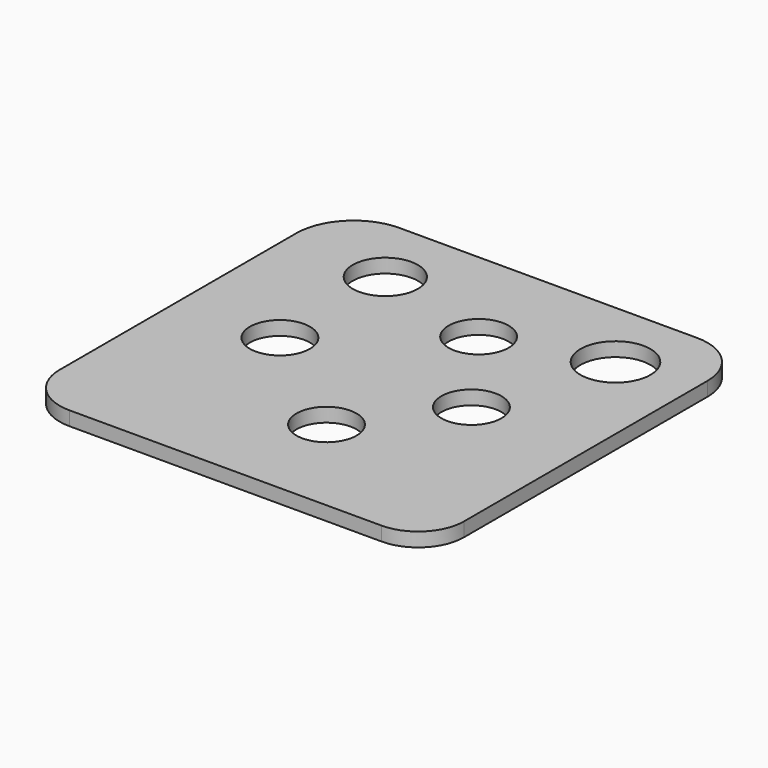
from build123d import *

# Parameters (mm, degrees)
PAD002_DEPTH    = 1.4
SKETCH004_R     = 3
POCKET001_DEPTH = 1.401
SKETCH006_R     = 3
POCKET002_DEPTH = 1.401
SKETCH007_R     = 3.5
POCKET003_DEPTH = 1.401
SKETCH008_R     = 3.25
POCKET004_DEPTH = 1.401


with BuildPart() as part:
    # Sketch003 → Pad002 (new body)
    with BuildSketch(Plane.XY):
        with BuildLine():
            Line((5.695763, -19.849672), (35.445129, -19.849672))
            ThreePointArc((40.603524, -25.008067), (39.092665, -21.360531), (35.445129, -19.849672))
            Line((40.603524, -25.008067), (40.603524, -55.432506))
            ThreePointArc((36.03603, -60), (39.265736, -58.662212), (40.603524, -55.432506))
            Line((36.03603, -60), (4.835631, -60))
            ThreePointArc((-0.035371, -55.128997), (1.391312, -58.573316), (4.835631, -60))
            Line((-0.035371, -55.128997), (-0.035371, -25.580806))
            ThreePointArc((5.695763, -19.849672), (1.643239, -21.528282), (-0.035371, -25.580806))
        make_face()
    extrude(amount=PAD002_DEPTH)

    # Sketch004 (on Face10 of Pad002) → Pocket001 (cut, through all)
    with BuildSketch(Plane.XY.offset(1.4)):
        with Locations((22, -49.34482)):
            Circle(SKETCH004_R)
        with Locations((22, -30.34482)):
            Circle(SKETCH004_R)
    extrude(amount=-POCKET001_DEPTH, mode=Mode.SUBTRACT)

    # Sketch006 (on Face5 of Pocket001) → Pocket002 (cut, through all)
    with BuildSketch(Plane.XY.offset(1.4)):
        with Locations((10, -40.165066)):
            Circle(SKETCH006_R)
        with Locations((29, -39.995171)):
            Circle(SKETCH006_R)
    extrude(amount=-POCKET002_DEPTH, mode=Mode.SUBTRACT)

    # Sketch007 (on Face5 of Pocket002) → Pocket003 (cut, through all)
    with BuildSketch(Plane.XY.offset(1.4)):
        with Locations((33, -27)):
            Circle(SKETCH007_R)
    extrude(amount=-POCKET003_DEPTH, mode=Mode.SUBTRACT)

    # Sketch008 (on Face5 of Pocket003) → Pocket004 (cut, through all)
    with BuildSketch(Plane.XY.offset(1.4)):
        with Locations((10, -27)):
            Circle(SKETCH008_R)
    extrude(amount=-POCKET004_DEPTH, mode=Mode.SUBTRACT)


with BuildPart() as part_1:
    # Body002 placement: moved
    add(part.part.moved(Location((0, 122, 0))))


with BuildPart() as part_2:
    # Clone placement: moved
    add(part_1.part.moved(Location((0.035371, -62, -1.4))))


solid = part_2.part
